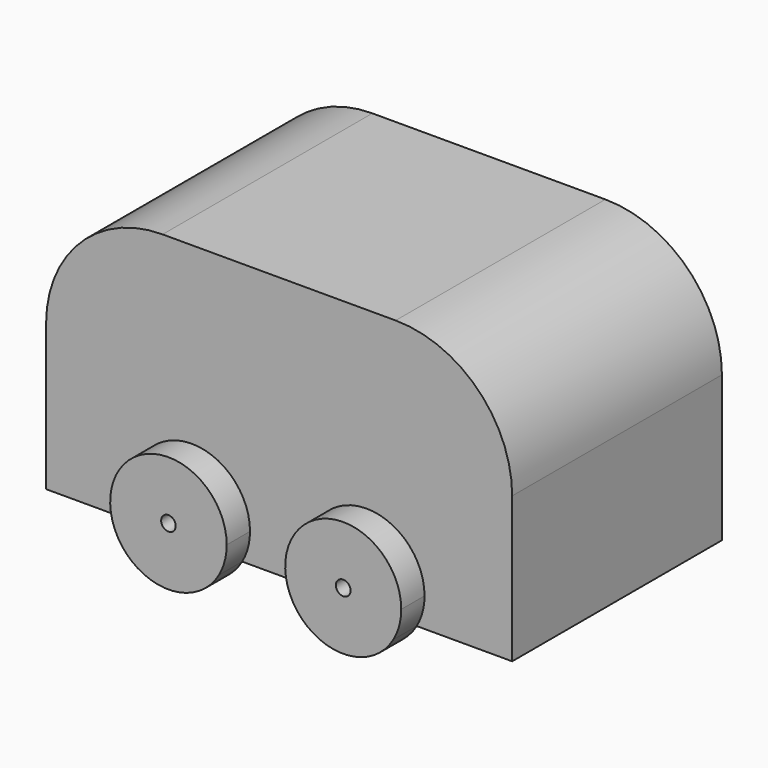
from build123d import *

# Parameters (mm, degrees)
F1_DEPTH = 28.575
F2_R     = 1.5875
F2_R_2   = 1.6042654536
F3_DEPTH = 6.35


with BuildPart() as f1:
    # F0 (on Front) → F1 (new body, symmetric)
    with BuildSketch(Plane.XZ):
        with BuildLine():
            Line((24.765, 40.5231858473), (-26.035, 40.5231858473))
            ThreePointArc((-26.035, 40.5231858473), (-43.9955122421, 33.0836980894), (-51.435, 15.1231858473))
            Line((-51.435, 15.1231858473), (-51.435, -16.6268141527))
            Line((-51.435, -16.6268141527), (50.165, -16.6268141527))
            Line((50.165, -16.6268141527), (50.165, 15.1231858473))
            ThreePointArc((50.165, 15.1231858473), (42.7255122421, 33.0836980894), (24.765, 40.5231858473))
        make_face()
    extrude(amount=F1_DEPTH, both=True)

    # F2 (on face) → F3 (join)
    with BuildSketch(Plane.XZ.offset(28.575)):
        with BuildLine():
            ThreePointArc((-8.6864773719, -16.6268141527), (-7.4177420061, -13.5638160255), (-6.985, -10.2768141527))
            ThreePointArc((-6.985, -10.2768141527), (-22.9720018728, 1.9904438412), (-30.6835226281, -16.6268141527))
            Line((-30.6835226281, -16.6268141527), (-8.6864773719, -16.6268141527))
        make_face()
        with Locations((-19.685, -10.2768141527)):
            Circle(F2_R, mode=Mode.SUBTRACT)
        with BuildLine():
            Line((-8.6864773719, -16.6268141527), (-30.6835226281, -16.6268141527))
            ThreePointArc((-30.6835226281, -16.6268141527), (-19.685, -22.9768141527), (-8.6864773719, -16.6268141527))
        make_face()
        with BuildLine():
            Line((29.3535084774, -16.6268141527), (7.4764915226, -16.6268141527))
            ThreePointArc((7.4764915226, -16.6268141527), (18.415, -22.9248759691), (29.3535084774, -16.6268141527))
        make_face()
        with BuildLine():
            ThreePointArc((31.0630618164, -10.2768141527), (15.1269507068, 1.9363836086), (7.4764915226, -16.6268141527))
            Line((7.4764915226, -16.6268141527), (29.3535084774, -16.6268141527))
            ThreePointArc((29.3535084774, -16.6268141527), (30.6281977613, -13.5648634459), (31.0630618164, -10.2768141527))
        make_face()
        with Locations((18.415, -10.2768141527)):
            Circle(F2_R_2, mode=Mode.SUBTRACT)
    extrude(amount=F3_DEPTH)

    # F4: F1 across plane


with BuildPart() as f1_1:
    add(f1.part)
    add(f1.part.mirror(Plane.XZ))


solid = f1_1.part
